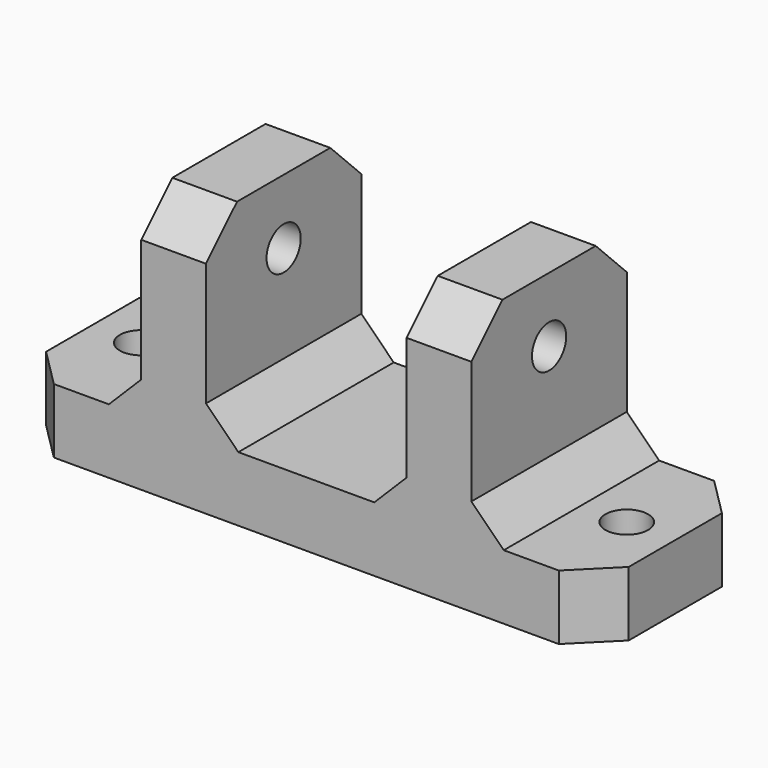
from build123d import *

# Parameters (mm, degrees)
SKETCH_W        = 90
SKETCH_H        = 30
PAD_DEPTH       = 10
SKETCH001_W     = 10
SKETCH001_H     = 30
PAD001_DEPTH    = 30
CHAMFER_SIZE    = 6
SKETCH002_R     = 3.3
HOLE_DEPTH      = 58.01716
HOLE_TIPS_R     = 3.3
CHAMFER001_SIZE = 5
SKETCH003_R     = 3.3
HOLE001_DEPTH   = 25


with BuildPart() as part:
    # Sketch → Pad (new body)
    with BuildSketch(Plane.XY):
        Rectangle(SKETCH_W, SKETCH_H)
    extrude(amount=PAD_DEPTH)

    # Sketch001 → Pad001 (join)
    with BuildSketch(Plane.XY.offset(10)):
        with Locations((20.5, 0)):
            Rectangle(SKETCH001_W, SKETCH001_H)
        with Locations((-20.5, 0)):
            Rectangle(SKETCH001_W, SKETCH001_H)
    extrude(amount=PAD001_DEPTH)

    # Chamfer
    chamfer_edges = [part.edges().sort_by_distance(p)[0] for p in [
        (-45, 15, 5),
        (-45, -15, 5),
        (-20.5, 15, 40),
        (-20.5, -15, 40),
        (20.5, 15, 40),
        (45, 15, 5),
        (20.5, -15, 40),
        (45, -15, 5),
    ]]
    chamfer(chamfer_edges, length=CHAMFER_SIZE)

    # Sketch002 (on Face15 of Chamfer) → Hole (cut)
    with BuildSketch(Plane(origin=(-25.5, 0, 0), x_dir=(0, -1, 0), z_dir=(-1, 0, 0))):
        with Locations((0, 30)):
            Circle(SKETCH002_R)
    extrude(amount=-HOLE_DEPTH, mode=Mode.SUBTRACT)

    # Hole tips → Hole tip 1 section 0
    with BuildSketch(Plane(origin=(32.51716, 0, 0), x_dir=(0, -1, 0), z_dir=(-1, 0, 0)), mode=Mode.PRIVATE) as hole_tip_1_s0:
        with Locations((0, 30)):
            Circle(HOLE_TIPS_R)
    loft([hole_tip_1_s0.sketch, Vertex(34.5, 0, 30)], mode=Mode.SUBTRACT)

    # Chamfer001
    chamfer001_edges = [part.edges().sort_by_distance(p)[0] for p in [
        (25.5, 0, 10),
        (-15.5, 0, 10),
        (-25.5, 0, 10),
        (15.5, 0, 10),
    ]]
    chamfer(chamfer001_edges, length=CHAMFER001_SIZE)

    # Sketch003 (on Face2 of Chamfer001) → Hole001 (cut)
    with BuildSketch(Plane.XY.offset(10)):
        with Locations((-37.5, 0)):
            Circle(SKETCH003_R)
        with Locations((37.5, 0)):
            Circle(SKETCH003_R)
    extrude(amount=-HOLE001_DEPTH, mode=Mode.SUBTRACT)


solid = part.part
